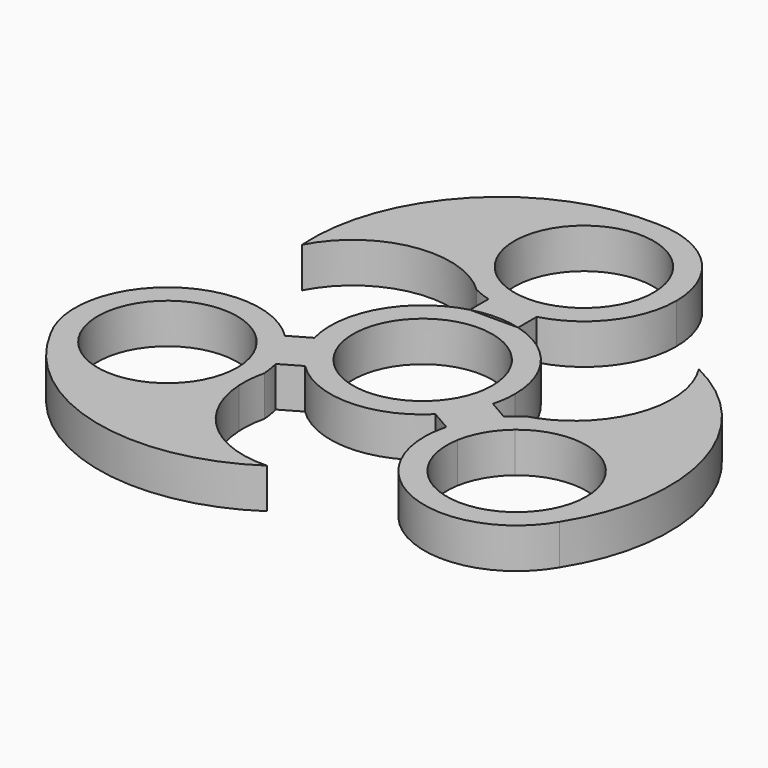
from build123d import *

# Parameters (mm, degrees)
F1_DEPTH = 6.35
F0_R     = 11.0236


with BuildPart() as f1:
    # F0 (on Top) → F1 (new body)
    with BuildSketch(Plane.XY):
        with BuildLine():
            ThreePointArc((-10.1654013572, 21.3925993856), (-13.5363236093, 37.3632618575), (0, 46.4842881026))
            ThreePointArc((0, 46.4842881026), (-22.5263105483, 37.5048782551), (-30.8565702289, 14.7305233404))
            ThreePointArc((-30.8565702289, 14.7305233404), (-21.8809601027, 22.3164467168), (-10.1654013572, 21.3925993856))
        make_face()
        with BuildLine():
            Line((3.81, 21.5350309055), (3.81, 17.78))
            ThreePointArc((3.81, 17.78), (11.5963588035, 23.0006346292), (14.605, 31.8792881026))
            ThreePointArc((14.605, 31.8792881026), (10.3272945392, 42.2065826418), (0, 46.4842881026))
            ThreePointArc((0, 46.4842881026), (-13.5363236093, 37.3632618575), (-10.1654013572, 21.3925993856))
            ThreePointArc((-10.1654013572, 21.3925993856), (-8.2319384108, 20.2283750435), (-6.488742226, 18.794860361))
            ThreePointArc((-6.488742226, 18.794860361), (-5.1743123454, 18.2215973478), (-3.81, 17.78))
            Line((-3.81, 17.78), (-3.81, 21.5350309055))
            ThreePointArc((-3.81, 21.5350309055), (-6.3055468026, 40.9214027048), (11.0236, 31.8792881026))
            ThreePointArc((11.0236, 31.8792881026), (9.0421146022, 25.5737413), (3.81, 21.5350309055))
        make_face()
        with BuildLine():
            ThreePointArc((-3.81, 17.78), (0, 17.2742881026), (3.81, 17.78))
            Line((3.81, 17.78), (3.81, 21.5350309055))
            ThreePointArc((3.81, 21.5350309055), (0, 20.8556881026), (-3.81, 21.5350309055))
            Line((-3.81, 21.5350309055), (-3.81, 17.78))
        make_face()
        with BuildLine():
            ThreePointArc((-3.81, 14.0992881026), (0, 14.605), (3.81, 14.0992881026))
            Line((3.81, 14.0992881026), (3.81, 17.78))
            ThreePointArc((3.81, 17.78), (0, 17.2742881026), (-3.81, 17.78))
            Line((-3.81, 17.78), (-3.81, 14.0992881026))
        make_face()
    extrude(amount=F1_DEPTH)


with BuildPart() as f1b:
    # F0 (on Top) → F1, piece 2 (new body)
    with BuildSketch(Plane.XY):
        with BuildLine():
            ThreePointArc((14.1153416721, -3.7500872629), (14.4820680519, -1.8909600576), (14.605, 0))
            ThreePointArc((14.605, 0), (11.5963588035, 8.8786534734), (3.81, 14.0992881026))
            Line((3.81, 14.0992881026), (-3.81, 14.0992881026))
            ThreePointArc((-3.81, 14.0992881026), (-12.6483010223, 7.3025), (-14.1153416721, -3.7500872629))
            ThreePointArc((-14.1153416721, -3.7500872629), (-12.6483010223, -7.3025), (-10.3053416721, -10.3492008397))
            ThreePointArc((-10.3053416721, -10.3492008397), (0, -14.605), (10.3053416721, -10.3492008397))
            ThreePointArc((10.3053416721, -10.3492008397), (12.6483010223, -7.3025), (14.1153416721, -3.7500872629))
        make_face()
        Circle(F0_R, mode=Mode.SUBTRACT)
        with BuildLine():
            Line((-20.5548838354, -7.4679586643), (-17.3029316793, -5.5904432116))
            ThreePointArc((-17.3029316793, -5.5904432116), (-36.5115311969, -4.3621648465), (-40.2565743737, -23.2421440513))
            ThreePointArc((-40.2565743737, -23.2421440513), (-25.5893721322, -30.4044310482), (-13.4438338423, -19.4997955078))
            ThreePointArc((-13.4438338423, -19.4997955078), (-13.4023174596, -17.2432553079), (-13.0324554202, -15.0168457868))
            ThreePointArc((-13.0324554202, -15.0168457868), (-13.1932100281, -13.5918846121), (-13.4929316793, -12.1895567884))
            Line((-13.4929316793, -12.1895567884), (-16.7448838354, -14.0670722412))
            ThreePointArc((-16.7448838354, -14.0670722412), (-16.6247990006, -14.9999376366), (-16.5846733514, -15.9396440513))
            ThreePointArc((-16.5846733514, -15.9396440513), (-37.5900943683, -20.6175715995), (-20.5548838354, -7.4679586643))
        make_face()
        with BuildLine():
            ThreePointArc((-13.4929316793, -12.1895567884), (-14.9599723291, -8.6371440513), (-17.3029316793, -5.5904432116))
            Line((-17.3029316793, -5.5904432116), (-20.5548838354, -7.4679586643))
            ThreePointArc((-20.5548838354, -7.4679586643), (-18.0615557103, -10.4278440513), (-16.7448838354, -14.0670722412))
            Line((-16.7448838354, -14.0670722412), (-13.4929316793, -12.1895567884))
        make_face()
        with BuildLine():
            ThreePointArc((-10.3053416721, -10.3492008397), (-12.6483010223, -7.3025), (-14.1153416721, -3.7500872629))
            Line((-14.1153416721, -3.7500872629), (-17.3029316793, -5.5904432116))
            ThreePointArc((-17.3029316793, -5.5904432116), (-14.9599723291, -8.6371440513), (-13.4929316793, -12.1895567884))
            Line((-13.4929316793, -12.1895567884), (-10.3053416721, -10.3492008397))
        make_face()
        with BuildLine():
            ThreePointArc((-13.4438338423, -19.4997955078), (-25.5893721322, -30.4044310482), (-40.2565743737, -23.2421440513))
            ThreePointArc((-40.2565743737, -23.2421440513), (-21.2170220606, -38.2607963159), (2.6712776906, -34.0878353621))
            ThreePointArc((2.6712776906, -34.0878353621), (-8.3861297276, -30.1076906665), (-13.4438338423, -19.4997955078))
        make_face()
        with BuildLine():
            Line((17.3029316793, -5.5904432116), (14.1153416721, -3.7500872629))
            ThreePointArc((14.1153416721, -3.7500872629), (12.6483010223, -7.3025), (10.3053416721, -10.3492008397))
            Line((10.3053416721, -10.3492008397), (13.4929316793, -12.1895567884))
            ThreePointArc((13.4929316793, -12.1895567884), (14.9599723291, -8.6371440513), (17.3029316793, -5.5904432116))
        make_face()
        with BuildLine():
            ThreePointArc((19.5211976462, -3.7780145742), (18.3675223734, -4.6297127357), (17.3029316793, -5.5904432116))
            Line((17.3029316793, -5.5904432116), (20.5548838354, -7.4679586643))
            ThreePointArc((20.5548838354, -7.4679586643), (32.2862008996, -5.9578230344), (38.6318733514, -15.9396440513))
            ThreePointArc((38.6318733514, -15.9396440513), (26.6685669367, -26.9231184021), (16.7448838354, -14.0670722412))
            Line((16.7448838354, -14.0670722412), (13.4929316793, -12.1895567884))
            ThreePointArc((13.4929316793, -12.1895567884), (22.033511171, -29.4388311243), (40.2565743737, -23.2421440513))
            ThreePointArc((40.2565743737, -23.2421440513), (41.7156200444, -19.719696205), (42.2132733514, -15.9396440513))
            ThreePointArc((42.2132733514, -15.9396440513), (36.4088435827, -4.2839163347), (23.6092351995, -1.8928038778))
            ThreePointArc((23.6092351995, -1.8928038778), (21.6342558704, -2.9851197356), (19.5211976462, -3.7780145742))
        make_face()
        with BuildLine():
            Line((20.5548838354, -7.4679586643), (17.3029316793, -5.5904432116))
            ThreePointArc((17.3029316793, -5.5904432116), (14.9599723291, -8.6371440513), (13.4929316793, -12.1895567884))
            Line((13.4929316793, -12.1895567884), (16.7448838354, -14.0670722412))
            ThreePointArc((16.7448838354, -14.0670722412), (18.0615557103, -10.4278440513), (20.5548838354, -7.4679586643))
        make_face()
        with BuildLine():
            ThreePointArc((42.2132733514, -15.9396440513), (41.7156200444, -19.719696205), (40.2565743737, -23.2421440513))
            ThreePointArc((40.2565743737, -23.2421440513), (43.7433326089, 0.7559180608), (28.1852925383, 19.3573120217))
            ThreePointArc((28.1852925383, 19.3573120217), (30.2670898303, 7.7912439497), (23.6092351995, -1.8928038778))
            ThreePointArc((23.6092351995, -1.8928038778), (36.4088435827, -4.2839163347), (42.2132733514, -15.9396440513))
        make_face()
    extrude(amount=F1_DEPTH)


solid = Compound([f1.part, f1b.part])
